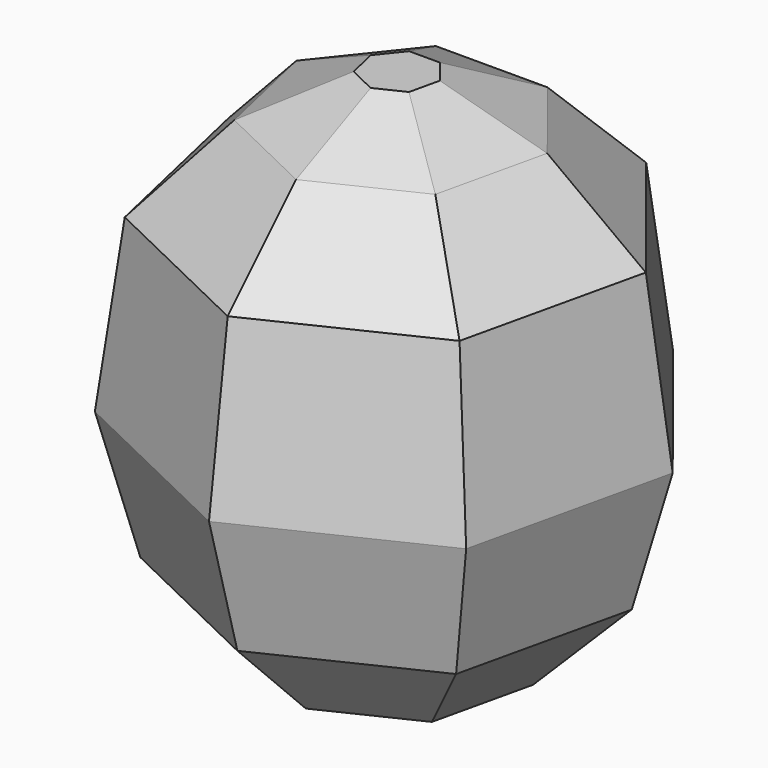
from build123d import *

# Parameters (mm, degrees)
F1_DEPTH = 28
F1_TAPER = 7
F2_DEPTH = 14
F2_TAPER = 42
F3_DEPTH = 7
F3_TAPER = 63
F4_DEPTH = 21
F4_TAPER = 14
F5_DEPTH = 14
F5_TAPER = 42


with BuildPart() as f1:
    # F0 (on Top) → F1 (new body)
    with BuildSketch(Plane.XY):
        Polygon((16.8551116583, 35), (-16.8551116583, 35), (-37.8730921145, 8.6442861301), (-30.3718617382, -24.2207515071), (0, -38.8470692461), (30.3718617382, -24.2207515071), (37.8730921145, 8.6442861301), align=None)
    extrude(amount=F1_DEPTH, taper=F1_TAPER)

    # F1_face (on face) → F2 (join)
    with BuildSketch(Plane.XY.offset(28)):
        Polygon((34.1529073262, 7.7951782287), (15.1994736711, 31.5620322947), (-15.1994736711, 31.5620322947), (-34.1529073262, 7.7951782287), (-27.3885051724, -21.8416040362), (0, -35.0312129743), (27.3885051724, -21.8416040362), align=None)
    extrude(amount=F2_DEPTH, taper=F2_TAPER)

    # F2_face (on face) → F3 (join)
    with BuildSketch(Plane.XY.offset(42)):
        Polygon((16.4497263156, -13.1182189911), (20.5124732023, 4.681838152), (9.1289093894, 18.9563756745), (-9.1289093894, 18.9563756745), (-20.5124732023, 4.681838152), (-16.4497263156, -13.1182189911), (0, -21.039989671), align=None)
    extrude(amount=F3_DEPTH, taper=F3_TAPER)

    # F0 (on Top) → F4 (join)
    with BuildSketch(Plane.XY):
        Polygon((16.8551116583, 35), (-16.8551116583, 35), (-37.8730921145, 8.6442861301), (-30.3718617382, -24.2207515071), (0, -38.8470692461), (30.3718617382, -24.2207515071), (37.8730921145, 8.6442861301), align=None)
    extrude(amount=-F4_DEPTH, taper=F4_TAPER)

    # F4_face (on face) → F5 (join)
    with BuildSketch(Plane(origin=(0, 0, -21), x_dir=(1, 0, 0), z_dir=(0, 0, -1))):
        Polygon((14.3336408618, -29.7641119403), (32.2073986635, -7.351128572), (25.8283283603, 20.5974045467), (0, 33.0356719312), (-25.8283283603, 20.5974045467), (-32.2073986635, -7.351128572), (-14.3336408618, -29.7641119403), align=None)
    extrude(amount=F5_DEPTH, taper=F5_TAPER)


solid = f1.part
